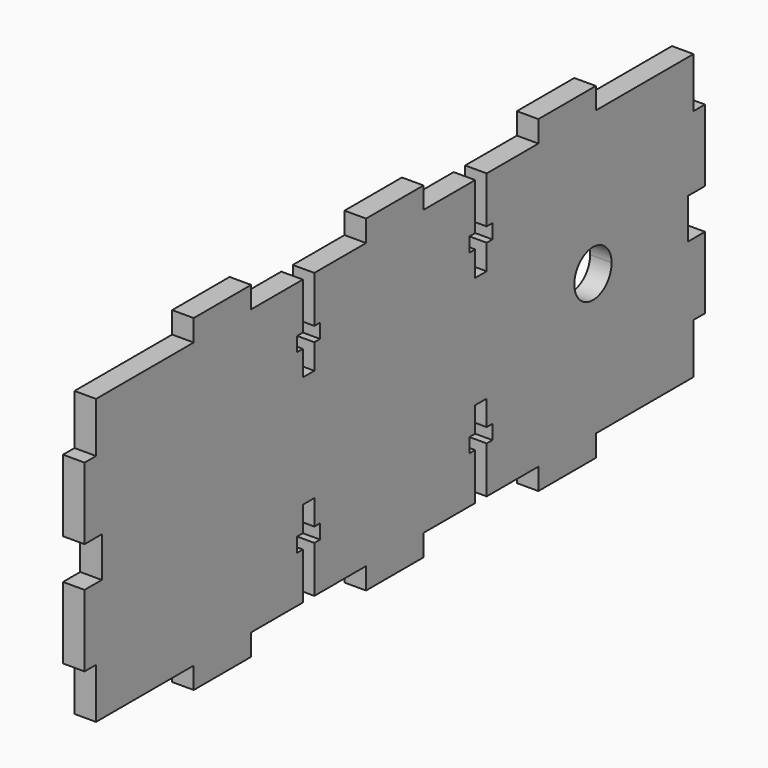
from build123d import *

# Parameters (mm, degrees)
F1_DEPTH = 3


with BuildPart() as f1:
    # F0 (on Right) → F1 (new body)
    with BuildSketch(Plane.YZ):
        Polygon((14, 7.8), (14, 11.3), (13, 11.3), (13, 13.3), (14, 13.3), (14, 19.8), (5, 19.8), (5, 22.8), (0, 22.8), (-5, 22.8), (-5, 19.8), (-14, 19.8), (-14, 13.3), (-13, 13.3), (-13, 11.3), (-14, 11.3), (-14, 7.8), (-16, 7.8), (-16, 11.3), (-17, 11.3), (-17, 13.3), (-16, 13.3), (-16, 19.8), (-25, 19.8), (-25, 22.8), (-35, 22.8), (-35, 19.8), (-52, 19.8), (-52, 12.8), (-54, 12.8), (-54, 2.8), (-51, 2.8), (-51, 0), (-51, -2.8), (-54, -2.8), (-54, -12.8), (-52, -12.8), (-52, -19.8), (-35, -19.8), (-35, -22.8), (-25, -22.8), (-25, -19.8), (-16, -19.8), (-16, -13.3), (-17, -13.3), (-17, -11.3), (-16, -11.3), (-16, -7.8), (-14, -7.8), (-14, -11.3), (-13, -11.3), (-13, -13.3), (-14, -13.3), (-14, -19.8), (-5, -19.8), (-5, -22.8), (0, -22.8), (5, -22.8), (5, -19.8), (14, -19.8), (14, -13.3), (13, -13.3), (13, -11.3), (14, -11.3), (14, -7.8), (16, -7.8), (16, -11.3), (17, -11.3), (17, -13.3), (16, -13.3), (16, -19.8), (25, -19.8), (25, -22.8), (35, -22.8), (35, -19.8), (52, -19.8), (52, -12.8), (54, -12.8), (54, -2.8), (51, -2.8), (51, 0), (51, 2.8), (54, 2.8), (54, 12.8), (52, 12.8), (52, 19.8), (35, 19.8), (35, 22.8), (25, 22.8), (25, 19.8), (16, 19.8), (16, 13.3), (17, 13.3), (17, 11.3), (16, 11.3), (16, 7.8), align=None)
        with BuildLine():
            ThreePointArc((37.75, 0), (31.67821, -1.612452), (36.15, 2.8))
            ThreePointArc((36.15, 2.8), (37.32179, 1.612452), (37.75, 0))
        make_face(mode=Mode.SUBTRACT)
    extrude(amount=F1_DEPTH)


solid = f1.part
